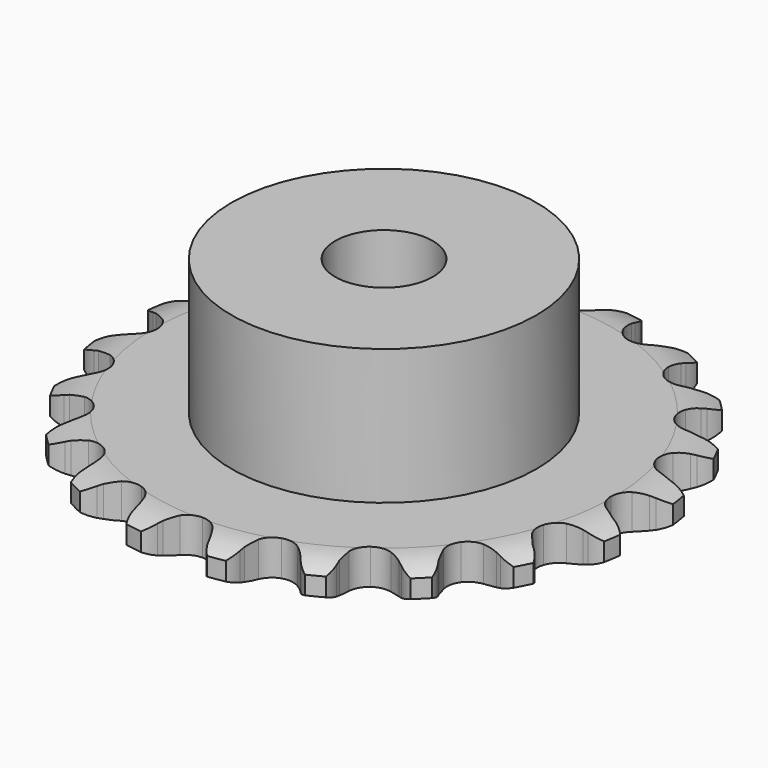
from build123d import *

# Parameters (mm, degrees)
PAD_DEPTH         = 2.9
SKETCH001_R       = 12.5
PAD001_DEPTH      = 14
SKETCH002_R       = 4
POCKET_DEPTH      = 0.001
POCKET_DEPTH_BACK = -14.001


with BuildPart() as part:
    # Sprocket → Pad (new body)
    with BuildSketch(Plane.XY):
        with BuildLine():
            ThreePointArc((-3.492321, 22.049647), (-2.645691, 21.471287), (-2.075994, 20.618803))
            Line((-2.075994, 20.618803), (-1.917173, 20.240982))
            ThreePointArc((-1.917173, 20.240982), (-1.659813, 19.727046), (-1.336742, 19.251662))
            ThreePointArc((-1.336742, 19.251662), (-0.743631, 18.77137), (0, 18.599689))
            ThreePointArc((0, 18.599689), (0.743631, 18.77137), (1.336742, 19.251662))
            ThreePointArc((1.336742, 19.251662), (1.659813, 19.727046), (1.917173, 20.240982))
            Line((1.917173, 20.240982), (2.075994, 20.618803))
            ThreePointArc((2.075994, 20.618803), (2.645691, 21.471287), (3.492321, 22.049647))
            ThreePointArc((3.492321, 22.049647), (4.118791, 21.237971), (4.397173, 20.251165))
            Line((4.397173, 20.251165), (4.431468, 19.842757))
            ThreePointArc((4.431468, 19.842757), (4.517417, 19.274446), (4.677773, 18.722494))
            ThreePointArc((4.677773, 18.722494), (5.093437, 18.082428), (5.74762, 17.689355))
            ThreePointArc((5.74762, 17.689355), (6.507907, 17.622839), (7.220408, 17.896342))
            Line((7.220408, 17.896342), (8.078147, 18.657879))
            ThreePointArc((8.078147, 18.657879), (8.20838, 18.81617), (8.345948, 18.96813))
            ThreePointArc((8.345948, 18.96813), (9.151194, 19.602844), (10.13511, 19.891274))
            ThreePointArc((10.13511, 19.891274), (10.480097, 18.925734), (10.439914, 17.901201))
            Line((10.439914, 17.901201), (10.346325, 17.502184))
            ThreePointArc((10.346325, 17.502184), (10.25245, 16.935129), (10.234396, 16.360639))
            ThreePointArc((10.234396, 16.360639), (10.431924, 15.623452), (10.932623, 15.047464))
            ThreePointArc((10.932623, 15.047464), (11.635144, 14.749262), (12.39729, 14.789204))
            Line((12.39729, 14.789204), (13.448376, 15.248413))
            ThreePointArc((13.448376, 15.248413), (13.62115, 15.358712), (13.798943, 15.460723))
            ThreePointArc((13.798943, 15.460723), (14.760915, 15.815538), (15.785804, 15.785804))
            ThreePointArc((15.785804, 15.785804), (15.815538, 14.760915), (15.460723, 13.798943))
            Line((15.460723, 13.798943), (15.248413, 13.448376))
            ThreePointArc((15.248413, 13.448376), (14.983902, 12.938083), (14.789204, 12.39729))
            ThreePointArc((14.789204, 12.39729), (14.749262, 11.635144), (15.047464, 10.932623))
            ThreePointArc((15.047464, 10.932623), (15.623452, 10.431924), (16.360639, 10.234396))
            Line((16.360639, 10.234396), (17.502184, 10.346325))
            ThreePointArc((17.502184, 10.346325), (17.700586, 10.397836), (17.901201, 10.439914))
            ThreePointArc((17.901201, 10.439914), (18.925734, 10.480097), (19.891274, 10.13511))
            ThreePointArc((19.891274, 10.13511), (19.602844, 9.151194), (18.96813, 8.345948))
            Line((18.96813, 8.345948), (18.657879, 8.078147))
            ThreePointArc((18.657879, 8.078147), (18.248625, 7.674568), (17.896342, 7.220408))
            ThreePointArc((17.896342, 7.220408), (17.622839, 6.507907), (17.689355, 5.74762))
            ThreePointArc((17.689355, 5.74762), (18.082428, 5.093437), (18.722494, 4.677773))
            Line((18.722494, 4.677773), (19.842757, 4.431468))
            ThreePointArc((19.842757, 4.431468), (20.047366, 4.419148), (20.251165, 4.397173))
            ThreePointArc((20.251165, 4.397173), (21.237971, 4.118791), (22.049647, 3.492321))
            ThreePointArc((22.049647, 3.492321), (21.471287, 2.645691), (20.618803, 2.075994))
            Line((20.618803, 2.075994), (20.240982, 1.917173))
            ThreePointArc((20.240982, 1.917173), (19.727046, 1.659813), (19.251662, 1.336742))
            ThreePointArc((19.251662, 1.336742), (18.77137, 0.743631), (18.599689, 0))
            ThreePointArc((18.599689, 0), (18.77137, -0.743631), (19.251662, -1.336742))
            Line((19.251662, -1.336742), (20.240982, -1.917173))
            ThreePointArc((20.240982, -1.917173), (20.43177, -1.992117), (20.618803, -2.075994))
            ThreePointArc((20.618803, -2.075994), (21.471287, -2.645691), (22.049647, -3.492321))
            ThreePointArc((22.049647, -3.492321), (21.237971, -4.118791), (20.251165, -4.397173))
            Line((20.251165, -4.397173), (19.842757, -4.431468))
            ThreePointArc((19.842757, -4.431468), (19.274446, -4.517417), (18.722494, -4.677773))
            ThreePointArc((18.722494, -4.677773), (18.082428, -5.093437), (17.689355, -5.74762))
            ThreePointArc((17.689355, -5.74762), (17.622839, -6.507907), (17.896342, -7.220408))
            Line((17.896342, -7.220408), (18.657879, -8.078147))
            ThreePointArc((18.657879, -8.078147), (18.81617, -8.20838), (18.96813, -8.345948))
            ThreePointArc((18.96813, -8.345948), (19.602844, -9.151194), (19.891274, -10.13511))
            ThreePointArc((19.891274, -10.13511), (18.925734, -10.480097), (17.901201, -10.439914))
            Line((17.901201, -10.439914), (17.502184, -10.346325))
            ThreePointArc((17.502184, -10.346325), (16.935129, -10.25245), (16.360639, -10.234396))
            ThreePointArc((16.360639, -10.234396), (15.623452, -10.431924), (15.047464, -10.932623))
            ThreePointArc((15.047464, -10.932623), (14.749262, -11.635144), (14.789204, -12.39729))
            Line((14.789204, -12.39729), (15.248413, -13.448376))
            ThreePointArc((15.248413, -13.448376), (15.358712, -13.62115), (15.460723, -13.798943))
            ThreePointArc((15.460723, -13.798943), (15.815538, -14.760915), (15.785804, -15.785804))
            ThreePointArc((15.785804, -15.785804), (14.760915, -15.815538), (13.798943, -15.460723))
            Line((13.798943, -15.460723), (13.448376, -15.248413))
            ThreePointArc((13.448376, -15.248413), (12.938083, -14.983902), (12.39729, -14.789204))
            ThreePointArc((12.39729, -14.789204), (11.635144, -14.749262), (10.932623, -15.047464))
            ThreePointArc((10.932623, -15.047464), (10.431924, -15.623452), (10.234396, -16.360639))
            Line((10.234396, -16.360639), (10.346325, -17.502184))
            ThreePointArc((10.346325, -17.502184), (10.397836, -17.700586), (10.439914, -17.901201))
            ThreePointArc((10.439914, -17.901201), (10.480097, -18.925734), (10.13511, -19.891274))
            ThreePointArc((10.13511, -19.891274), (9.151194, -19.602844), (8.345948, -18.96813))
            Line((8.345948, -18.96813), (8.078147, -18.657879))
            ThreePointArc((8.078147, -18.657879), (7.674568, -18.248625), (7.220408, -17.896342))
            ThreePointArc((7.220408, -17.896342), (6.507907, -17.622839), (5.74762, -17.689355))
            ThreePointArc((5.74762, -17.689355), (5.093437, -18.082428), (4.677773, -18.722494))
            Line((4.677773, -18.722494), (4.431468, -19.842757))
            ThreePointArc((4.431468, -19.842757), (4.419148, -20.047366), (4.397173, -20.251165))
            ThreePointArc((4.397173, -20.251165), (4.118791, -21.237971), (3.492321, -22.049647))
            ThreePointArc((3.492321, -22.049647), (2.645691, -21.471287), (2.075994, -20.618803))
            Line((2.075994, -20.618803), (1.917173, -20.240982))
            ThreePointArc((1.917173, -20.240982), (1.659813, -19.727046), (1.336742, -19.251662))
            ThreePointArc((1.336742, -19.251662), (0.743631, -18.77137), (0, -18.599689))
            ThreePointArc((0, -18.599689), (-0.743631, -18.77137), (-1.336742, -19.251662))
            Line((-1.336742, -19.251662), (-1.917173, -20.240982))
            ThreePointArc((-1.917173, -20.240982), (-1.992117, -20.43177), (-2.075994, -20.618803))
            ThreePointArc((-2.075994, -20.618803), (-2.645691, -21.471287), (-3.492321, -22.049647))
            ThreePointArc((-3.492321, -22.049647), (-4.118791, -21.237971), (-4.397173, -20.251165))
            Line((-4.397173, -20.251165), (-4.431468, -19.842757))
            ThreePointArc((-4.431468, -19.842757), (-4.517417, -19.274446), (-4.677773, -18.722494))
            ThreePointArc((-4.677773, -18.722494), (-5.093437, -18.082428), (-5.74762, -17.689355))
            ThreePointArc((-5.74762, -17.689355), (-6.507907, -17.622839), (-7.220408, -17.896342))
            Line((-7.220408, -17.896342), (-8.078147, -18.657879))
            ThreePointArc((-8.078147, -18.657879), (-8.20838, -18.81617), (-8.345948, -18.96813))
            ThreePointArc((-8.345948, -18.96813), (-9.151194, -19.602844), (-10.13511, -19.891274))
            ThreePointArc((-10.13511, -19.891274), (-10.480097, -18.925734), (-10.439914, -17.901201))
            Line((-10.439914, -17.901201), (-10.346325, -17.502184))
            ThreePointArc((-10.346325, -17.502184), (-10.25245, -16.935129), (-10.234396, -16.360639))
            ThreePointArc((-10.234396, -16.360639), (-10.431924, -15.623452), (-10.932623, -15.047464))
            ThreePointArc((-10.932623, -15.047464), (-11.635144, -14.749262), (-12.39729, -14.789204))
            Line((-12.39729, -14.789204), (-13.448376, -15.248413))
            ThreePointArc((-13.448376, -15.248413), (-13.62115, -15.358712), (-13.798943, -15.460723))
            ThreePointArc((-13.798943, -15.460723), (-14.760915, -15.815538), (-15.785804, -15.785804))
            ThreePointArc((-15.785804, -15.785804), (-15.815538, -14.760915), (-15.460723, -13.798943))
            Line((-15.460723, -13.798943), (-15.248413, -13.448376))
            ThreePointArc((-15.248413, -13.448376), (-14.983902, -12.938083), (-14.789204, -12.39729))
            ThreePointArc((-14.789204, -12.39729), (-14.749262, -11.635144), (-15.047464, -10.932623))
            ThreePointArc((-15.047464, -10.932623), (-15.623452, -10.431924), (-16.360639, -10.234396))
            Line((-16.360639, -10.234396), (-17.502184, -10.346325))
            ThreePointArc((-17.502184, -10.346325), (-17.700586, -10.397836), (-17.901201, -10.439914))
            ThreePointArc((-17.901201, -10.439914), (-18.925734, -10.480097), (-19.891274, -10.13511))
            ThreePointArc((-19.891274, -10.13511), (-19.602844, -9.151194), (-18.96813, -8.345948))
            Line((-18.96813, -8.345948), (-18.657879, -8.078147))
            ThreePointArc((-18.657879, -8.078147), (-18.248625, -7.674568), (-17.896342, -7.220408))
            ThreePointArc((-17.896342, -7.220408), (-17.622839, -6.507907), (-17.689355, -5.74762))
            ThreePointArc((-17.689355, -5.74762), (-18.082428, -5.093437), (-18.722494, -4.677773))
            Line((-18.722494, -4.677773), (-19.842757, -4.431468))
            ThreePointArc((-19.842757, -4.431468), (-20.047366, -4.419148), (-20.251165, -4.397173))
            ThreePointArc((-20.251165, -4.397173), (-21.237971, -4.118791), (-22.049647, -3.492321))
            ThreePointArc((-22.049647, -3.492321), (-21.471287, -2.645691), (-20.618803, -2.075994))
            Line((-20.618803, -2.075994), (-20.240982, -1.917173))
            ThreePointArc((-20.240982, -1.917173), (-19.727046, -1.659813), (-19.251662, -1.336742))
            ThreePointArc((-19.251662, -1.336742), (-18.77137, -0.743631), (-18.599689, 0))
            ThreePointArc((-18.599689, 0), (-18.77137, 0.743631), (-19.251662, 1.336742))
            Line((-19.251662, 1.336742), (-20.240982, 1.917173))
            ThreePointArc((-20.240982, 1.917173), (-20.43177, 1.992117), (-20.618803, 2.075994))
            ThreePointArc((-20.618803, 2.075994), (-21.471287, 2.645691), (-22.049647, 3.492321))
            ThreePointArc((-22.049647, 3.492321), (-21.237971, 4.118791), (-20.251165, 4.397173))
            Line((-20.251165, 4.397173), (-19.842757, 4.431468))
            ThreePointArc((-19.842757, 4.431468), (-19.274446, 4.517417), (-18.722494, 4.677773))
            ThreePointArc((-18.722494, 4.677773), (-18.082428, 5.093437), (-17.689355, 5.74762))
            ThreePointArc((-17.689355, 5.74762), (-17.622839, 6.507907), (-17.896342, 7.220408))
            Line((-17.896342, 7.220408), (-18.657879, 8.078147))
            ThreePointArc((-18.657879, 8.078147), (-18.81617, 8.20838), (-18.96813, 8.345948))
            ThreePointArc((-18.96813, 8.345948), (-19.602844, 9.151194), (-19.891274, 10.13511))
            ThreePointArc((-19.891274, 10.13511), (-18.925734, 10.480097), (-17.901201, 10.439914))
            Line((-17.901201, 10.439914), (-17.502184, 10.346325))
            ThreePointArc((-17.502184, 10.346325), (-16.935129, 10.25245), (-16.360639, 10.234396))
            ThreePointArc((-16.360639, 10.234396), (-15.623452, 10.431924), (-15.047464, 10.932623))
            ThreePointArc((-15.047464, 10.932623), (-14.749262, 11.635144), (-14.789204, 12.39729))
            Line((-14.789204, 12.39729), (-15.248413, 13.448376))
            ThreePointArc((-15.248413, 13.448376), (-15.358712, 13.62115), (-15.460723, 13.798943))
            ThreePointArc((-15.460723, 13.798943), (-15.815538, 14.760915), (-15.785804, 15.785804))
            ThreePointArc((-15.785804, 15.785804), (-14.760915, 15.815538), (-13.798943, 15.460723))
            Line((-13.798943, 15.460723), (-13.448376, 15.248413))
            ThreePointArc((-13.448376, 15.248413), (-12.938083, 14.983902), (-12.39729, 14.789204))
            ThreePointArc((-12.39729, 14.789204), (-11.635144, 14.749262), (-10.932623, 15.047464))
            ThreePointArc((-10.932623, 15.047464), (-10.431924, 15.623452), (-10.234396, 16.360639))
            Line((-10.234396, 16.360639), (-10.346325, 17.502184))
            ThreePointArc((-10.346325, 17.502184), (-10.397836, 17.700586), (-10.439914, 17.901201))
            ThreePointArc((-10.439914, 17.901201), (-10.480097, 18.925734), (-10.13511, 19.891274))
            ThreePointArc((-10.13511, 19.891274), (-9.151194, 19.602844), (-8.345948, 18.96813))
            Line((-8.345948, 18.96813), (-8.078147, 18.657879))
            ThreePointArc((-8.078147, 18.657879), (-7.674568, 18.248625), (-7.220408, 17.896342))
            ThreePointArc((-7.220408, 17.896342), (-6.507907, 17.622839), (-5.74762, 17.689355))
            ThreePointArc((-5.74762, 17.689355), (-5.093437, 18.082428), (-4.677773, 18.722494))
            Line((-4.677773, 18.722494), (-4.431468, 19.842757))
            ThreePointArc((-4.431468, 19.842757), (-4.419148, 20.047366), (-4.397173, 20.251165))
            ThreePointArc((-4.397173, 20.251165), (-4.118791, 21.237971), (-3.492321, 22.049647))
        make_face()
    extrude(amount=PAD_DEPTH)

    # Sketch → Groove (revolve, cut)
    with BuildSketch(Plane.XZ):
        with BuildLine():
            Line((18.789674, 0), (21.7, 0))
            Line((24.610326, 0), (21.7, 0))
            Line((24.610326, 2.9), (24.610326, 0))
            Line((21.7, 2.9), (24.610326, 2.9))
            Line((18.789674, 2.9), (21.7, 2.9))
            ThreePointArc((21.7, 2.2), (20.286337, 2.72254), (18.789674, 2.9))
            Line((21.7, 0.7), (21.7, 2.2))
            ThreePointArc((18.789674, 0), (20.286337, 0.17746), (21.7, 0.7))
        make_face()
    revolve(axis=Axis((0, 0, 0), (0, 0, 1)), mode=Mode.SUBTRACT)

    # Sketch001 → Pad001 (join)
    with BuildSketch(Plane.XY):
        Circle(SKETCH001_R)
    extrude(amount=PAD001_DEPTH)

    # Sketch002 → Pocket (cut, two sides)
    with BuildSketch(Plane.XY) as pocket_sk:
        Circle(SKETCH002_R)
    extrude(amount=-POCKET_DEPTH, mode=Mode.SUBTRACT)
    extrude(pocket_sk.sketch, amount=-POCKET_DEPTH_BACK, mode=Mode.SUBTRACT)


solid = part.part
